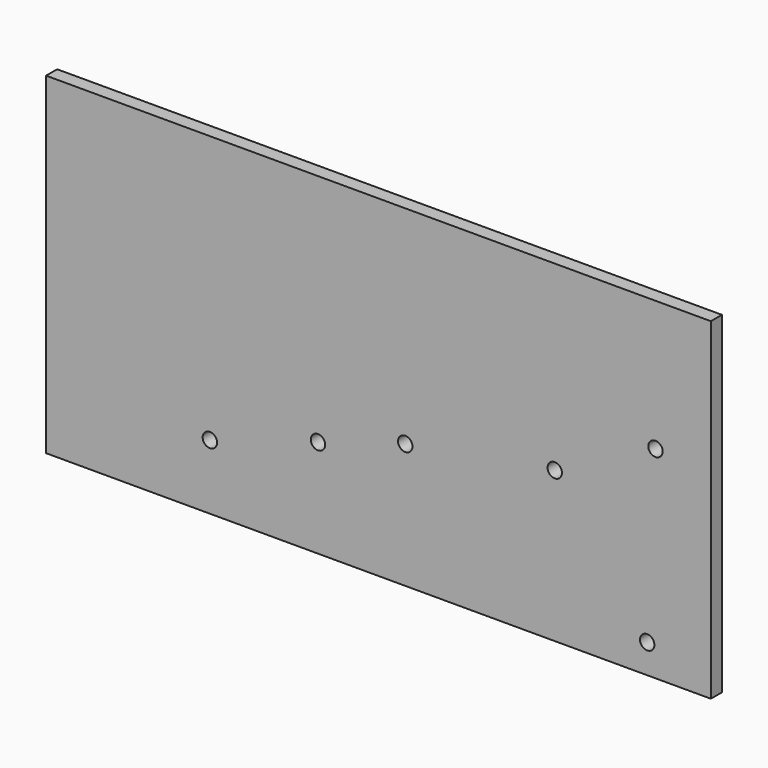
from build123d import *

# Parameters (mm, degrees)
F0_W     = 152.4
F0_H     = 76.2
F0_R     = 1.651
F1_DEPTH = 3.175


with BuildPart() as f1:
    # F0 (on Front) → F1 (new body)
    with BuildSketch(Plane.XZ):
        with Locations((-76.2, 38.1)):
            Rectangle(F0_W, F0_H)
        with Locations((-114.852957, 14.869115)):
            Circle(F0_R, mode=Mode.SUBTRACT)
        with Locations((-90.066759, 22.497064)):
            Circle(F0_R, mode=Mode.SUBTRACT)
        with Locations((-14.592638, 6.6557)):
            Circle(F0_R, mode=Mode.SUBTRACT)
        with Locations((-70.06301, 28.653214)):
            Circle(F0_R, mode=Mode.SUBTRACT)
        with Locations((-35.783276, 34.487042)):
            Circle(F0_R, mode=Mode.SUBTRACT)
        with Locations((-12.7, 46.30667)):
            Circle(F0_R, mode=Mode.SUBTRACT)
    extrude(amount=F1_DEPTH)


solid = f1.part
